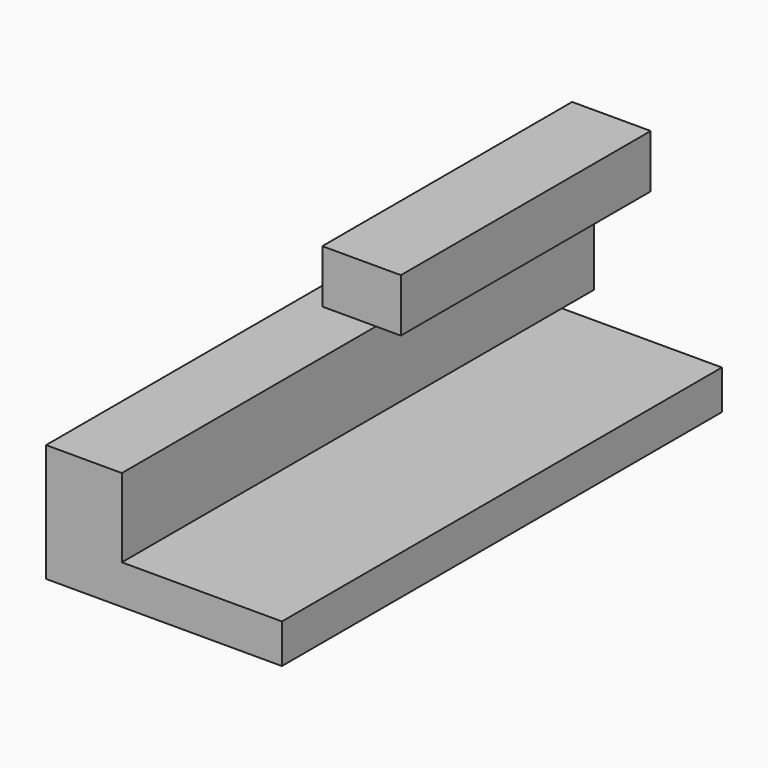
from build123d import *

# Parameters (mm, degrees)
F0_W     = 76.2
F0_H     = 177.8
F1_DEPTH = 12.7
F3_DEPTH = 25.4
F4_W     = 100.9536013007
F4_H     = 11.7709934711
F5_DEPTH = 25.4
F6_W     = 25.4
F6_H     = 100.9536013007
F7_DEPTH = 5.4291039705


with BuildPart() as f1:
    # F0 (on Top) → F1 (new body)
    with BuildSketch(Plane.XY):
        with Locations((-5.4415319678, -3.2189898193)):
            Rectangle(F0_W, F0_H)
    extrude(amount=F1_DEPTH)

    # F2 (on face) → F3 (join)
    with BuildSketch(Plane.XY.offset(12.7)):
        Polygon((-43.5415319678, -92.1189898193), (-19.0774220973, -92.1189898193), (-19.0774220973, 42.8526476026), (-19.0774220973, 85.6810101807), (-43.5415319678, 85.6810101807), align=None)
        Polygon((-43.5755159706, -92.1189898193), (-19.0774220973, -92.1189898193), (-19.0774220973, 42.8526476026), (-19.0774220973, 96.1600020528), (-19.0774220973, 98.655846113), (-43.5755159706, 98.655846113), align=None)
    extrude(amount=F3_DEPTH)


with BuildPart() as f5:
    # F4 (on face) → F5 (new body)
    with BuildSketch(Plane.YZ.offset(32.6584680322)):
        with Locations((-25.3210403025, 101.5570759773)):
            Rectangle(F4_W, F4_H)
    extrude(amount=F5_DEPTH)

    # F6 (on face) → F7 (join)
    with BuildSketch(Plane.XY.offset(107.4425727129)):
        with Locations((45.3584680322, -25.3210403025)):
            Rectangle(F6_W, F6_H)
    extrude(amount=F7_DEPTH)


solid = Compound([f1.part, f5.part])
